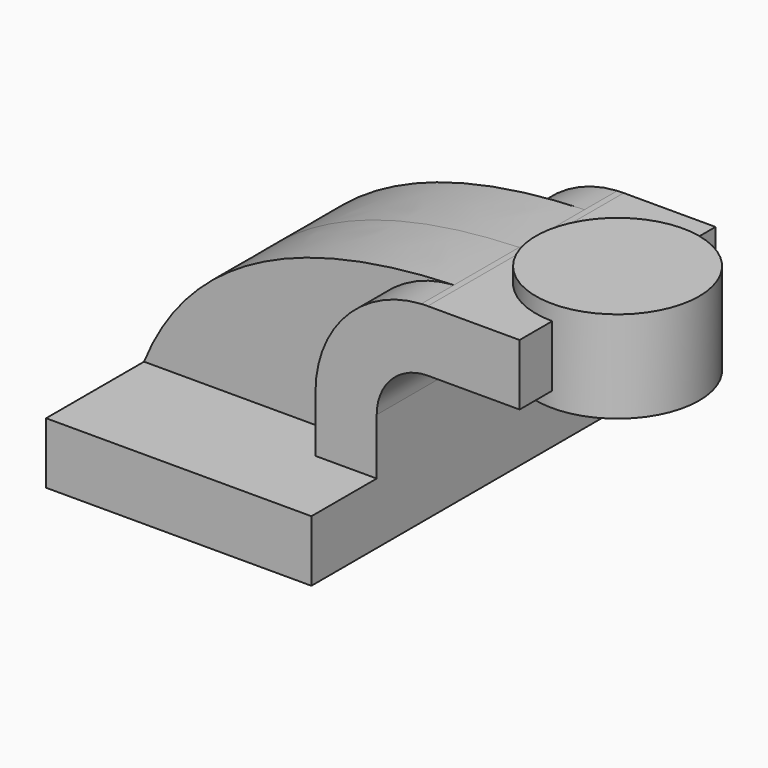
from build123d import *

# Parameters (mm, degrees)
F1_DEPTH = 2.5
F0_W     = 1
F0_H     = 0.75
F2_DEPTH = 1.5
F3_DEPTH = 1


with BuildPart() as f1:
    # F0 (on Front) → F1 (new body, symmetric)
    with BuildSketch(Plane.XZ):
        Polygon((1.625, -0.375), (1.625, 0.375), (0.875, 0.375), (-1.625, 0.375), (-1.625, -0.375), align=None)
    extrude(amount=F1_DEPTH, both=True)

    # F0 (on Front) → F2 (join, symmetric)
    with BuildSketch(Plane.XZ):
        with BuildLine():
            Line((0.875, 0.375), (1.625, 0.375))
            Line((1.625, 0.375), (1.625, 1.063))
            ThreePointArc((1.625, 1.063), (1.8080582618, 1.5049417382), (2.25, 1.688))
            Line((2.25, 1.688), (2.375, 1.688))
            Line((2.375, 1.688), (2.375, 2.438))
            Line((2.375, 2.438), (2.25, 2.438))
            add(Edge.make_bspline(
                [(2.170906051, 2.4357232595), (2.1971042738, 2.4365893648), (2.2234685803, 2.4373486386), (2.25, 2.438)],
                knots=[4.3419944686, 4.3419944686, 4.3419944686, 4.3419944686, 4.3899423686, 4.3899423686, 4.3899423686, 4.3899423686], degree=3))
            ThreePointArc((2.170906051, 2.4357232595), (1.2501552171, 2.0068937493), (0.875, 1.063))
            Line((0.875, 1.063), (0.875, 0.375))
        make_face()
        with Locations((2.875, 2.063)):
            Rectangle(F0_W, F0_H)
    extrude(amount=F2_DEPTH, both=True)

    # F0 (on Front) → F3 (join, symmetric)
    with BuildSketch(Plane.XZ):
        with BuildLine():
            Line((-1.625, 0.375), (0.875, 0.375))
            Line((0.875, 0.375), (0.875, 1.063))
            ThreePointArc((0.875, 1.063), (1.2501552171, 2.0068937493), (2.170906051, 2.4357232595))
            add(Edge.make_bspline(
                [(-1.625, 0.375), (-1.2119672171, 1.4027909671), (-0.2015135657, 2.3572917876), (2.170906051, 2.4357232595)],
                knots=[0, 0, 0, 0, 4.3419944686, 4.3419944686, 4.3419944686, 4.3419944686], degree=3))
        make_face()
    extrude(amount=F3_DEPTH, both=True)

    # F0 (on Front) → F4 (revolve)
    with BuildSketch(Plane.XZ):
        Polygon((3.375, 2.438), (3.375, 1.688), (3.375, 1.5), (4.375, 1.5), (4.375, 2.625), (3.375, 2.625), align=None)
    revolve(axis=Axis((3.375, 0, 2.0625), (0, 0, 1)))


solid = f1.part
